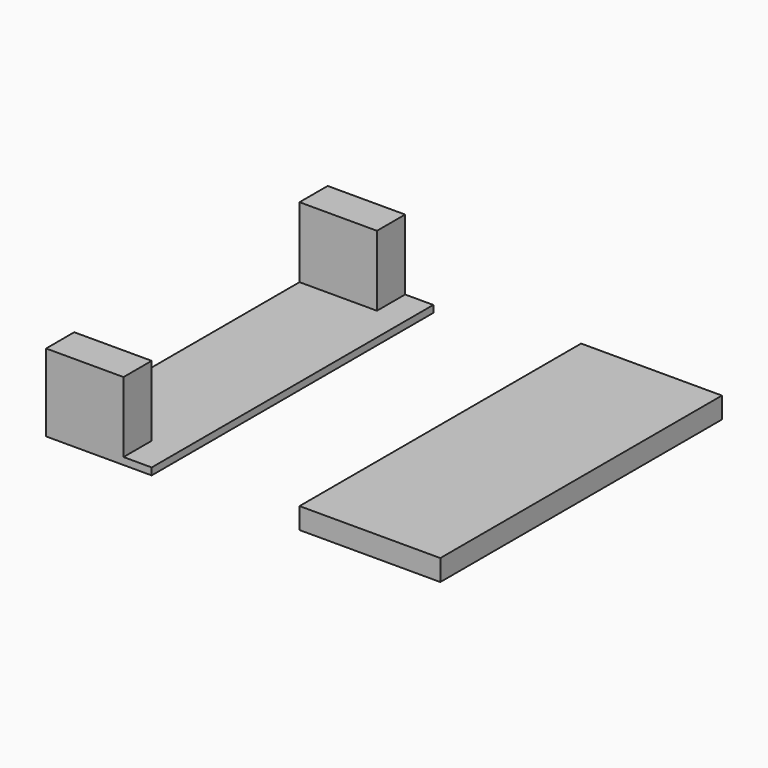
from build123d import *

# Parameters (mm, degrees)
F0_W     = 15
F0_H     = 50
F1_DEPTH = 1
F2_W     = 11
F2_H     = 5
F3_DEPTH = 10
F4_W     = 20
F4_H     = 50
F5_DEPTH = 3


with BuildPart() as f1:
    # F0 (on Top) → F1 (new body)
    with BuildSketch(Plane.XY):
        with Locations((1.5, 0)):
            Rectangle(F0_W, F0_H)
    extrude(amount=F1_DEPTH)

    # F2 (on face) → F3 (join)
    with BuildSketch(Plane.XY.offset(1)):
        with Locations((-0.5, -22.5)):
            Rectangle(F2_W, F2_H)
        with Locations((-0.5, 22.5)):
            Rectangle(F2_W, F2_H)
    extrude(amount=F3_DEPTH)


with BuildPart() as f5:
    # F4 (on Top) → F5 (new body)
    with BuildSketch(Plane.XY):
        with Locations((40, 0)):
            Rectangle(F4_W, F4_H)
    extrude(amount=F5_DEPTH)


solid = Compound([f1.part, f5.part])
